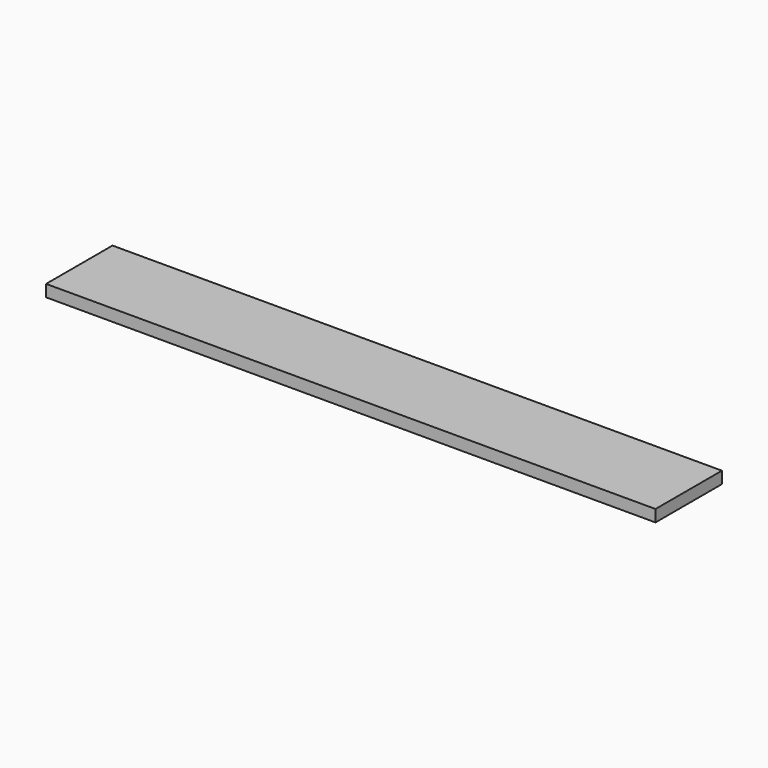
from build123d import *

# Parameters (mm, degrees)
F0_W      = 297
F0_H      = 35
F1_DEPTH  = 5
F1_FACE_W = 35
F1_FACE_H = 5
F2_DEPTH  = 40


with BuildPart() as f1:
    # F0 (on Top) → F1 (new body)
    with BuildSketch(Plane.XY):
        with Locations((71.949717, 17.5)):
            Rectangle(F0_W, F0_H)
    extrude(amount=F1_DEPTH)

    # F1_face (on face) → F2 (cut)
    with BuildSketch(Plane(origin=(220.449717, 17.5, 2.5), x_dir=(0, 1, 0), z_dir=(1, 0, 0))):
        Rectangle(F1_FACE_W, F1_FACE_H)
    extrude(amount=-F2_DEPTH, mode=Mode.SUBTRACT)


solid = f1.part
